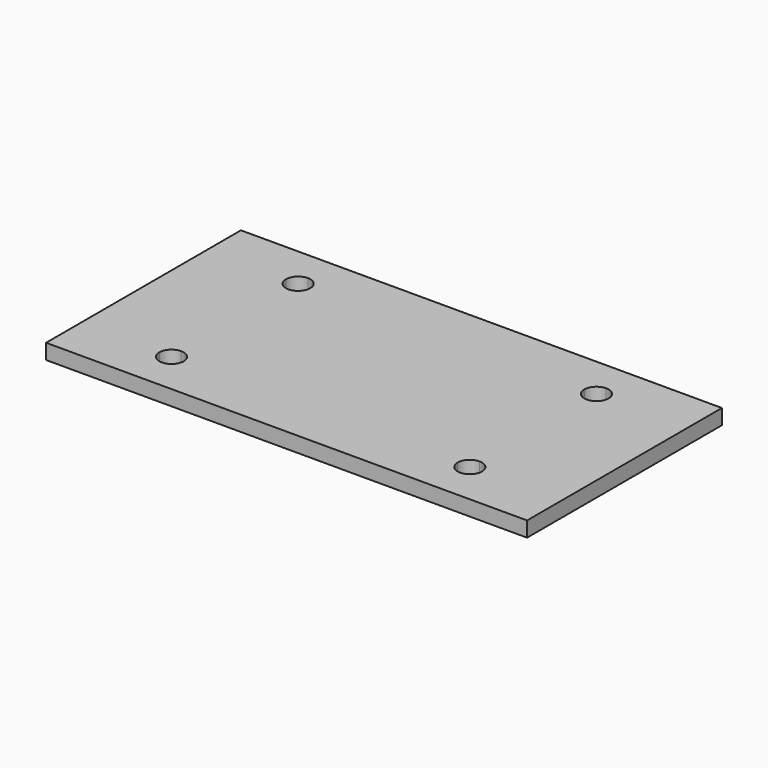
from build123d import *

# Parameters (mm, degrees)
F1_DEPTH = 5


with BuildPart() as f1:
    # F0 (on Top) → F1 (new body)
    with BuildSketch(Plane.XY):
        with BuildLine():
            Line((-79, 40), (-79, 26))
            Line((-79, 26), (-53, 26))
            ThreePointArc((-53, 26), (-51.8284271247, 28.8284271247), (-49, 30))
            Line((-49, 30), (-49, 40))
            Line((-49, 40), (-79, 40))
        make_face()
        with BuildLine():
            Line((-79, 26), (-79, -26))
            Line((-79, -26), (-53, -26))
            ThreePointArc((-53, -26), (-51.8284271247, -23.1715728753), (-49, -22))
            Line((-49, -22), (-49, 22))
            ThreePointArc((-49, 22), (-51.8284271247, 23.1715728753), (-53, 26))
            Line((-53, 26), (-79, 26))
        make_face()
        with BuildLine():
            Line((-45, -26), (45, -26))
            ThreePointArc((45, -26), (46.1715728753, -23.1715728753), (49, -22))
            Line((49, -22), (49, 22))
            ThreePointArc((49, 22), (46.1715728753, 23.1715728753), (45, 26))
            Line((45, 26), (-45, 26))
            ThreePointArc((-45, 26), (-46.1715728753, 23.1715728753), (-49, 22))
            Line((-49, 22), (-49, -22))
            ThreePointArc((-49, -22), (-46.1715728753, -23.1715728753), (-45, -26))
        make_face()
        with BuildLine():
            Line((49, 30), (49, 40))
            Line((49, 40), (-49, 40))
            Line((-49, 40), (-49, 30))
            ThreePointArc((-49, 30), (-46.1715728753, 28.8284271247), (-45, 26))
            Line((-45, 26), (45, 26))
            ThreePointArc((45, 26), (46.1715728753, 28.8284271247), (49, 30))
        make_face()
        with BuildLine():
            Line((53, 26), (79, 26))
            Line((79, 26), (79, 40))
            Line((79, 40), (49, 40))
            Line((49, 40), (49, 30))
            ThreePointArc((49, 30), (51.8284271247, 28.8284271247), (53, 26))
        make_face()
        with BuildLine():
            Line((53, -26), (79, -26))
            Line((79, -26), (79, 26))
            Line((79, 26), (53, 26))
            ThreePointArc((53, 26), (51.8284271247, 23.1715728753), (49, 22))
            Line((49, 22), (49, -22))
            ThreePointArc((49, -22), (51.8284271247, -23.1715728753), (53, -26))
        make_face()
        with BuildLine():
            Line((49, -40), (79, -40))
            Line((79, -40), (79, -26))
            Line((79, -26), (53, -26))
            ThreePointArc((53, -26), (51.8284271247, -28.8284271247), (49, -30))
            Line((49, -30), (49, -40))
        make_face()
        with BuildLine():
            Line((-49, -40), (49, -40))
            Line((49, -40), (49, -30))
            ThreePointArc((49, -30), (46.1715728753, -28.8284271247), (45, -26))
            Line((45, -26), (-45, -26))
            ThreePointArc((-45, -26), (-46.1715728753, -28.8284271247), (-49, -30))
            Line((-49, -30), (-49, -40))
        make_face()
        with BuildLine():
            Line((-79, -40), (-49, -40))
            Line((-49, -40), (-49, -30))
            ThreePointArc((-49, -30), (-51.8284271247, -28.8284271247), (-53, -26))
            Line((-53, -26), (-79, -26))
            Line((-79, -26), (-79, -40))
        make_face()
    extrude(amount=F1_DEPTH)


solid = f1.part
